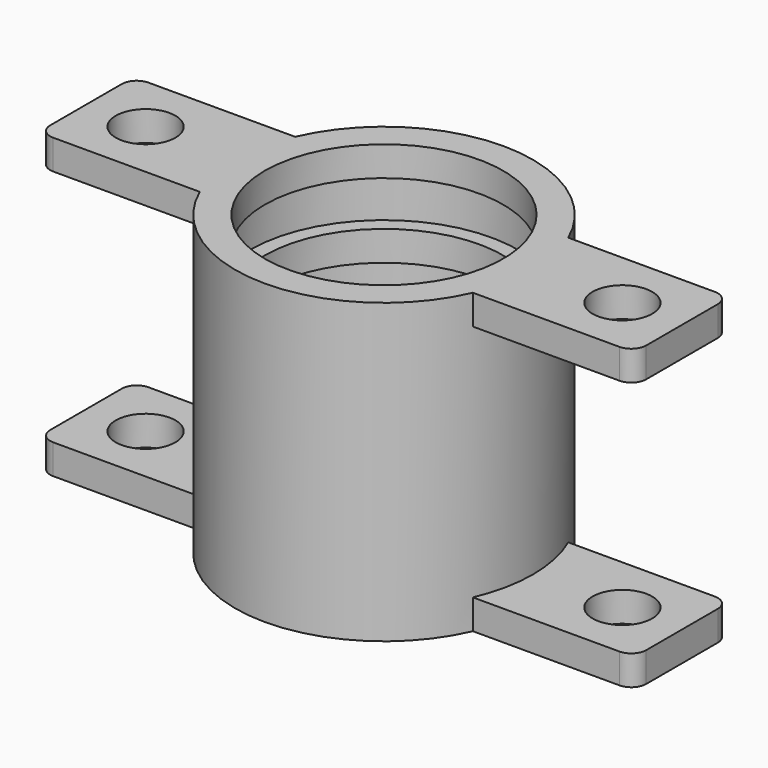
from build123d import *

# Parameters (mm, degrees)
F2_R     = 5
F3_DEPTH = 5


with BuildPart() as f1:
    # F0 (on Front) → F1 (revolve)
    with BuildSketch(Plane.XZ):
        Polygon((-25, 25), (-25, 0), (-22.5, 0), (-22.5, 7.5), (-20, 7.5), (-20, 12.5), (-22.5, 12.5), (-22.5, 20), (-20, 20), (-20, 25), align=None)
        Polygon((-22.5, 0), (-25, 0), (-25, -25), (-20, -25), (-20, -20), (-22.5, -20), (-22.5, -12.5), (-20, -12.5), (-20, -7.5), (-22.5, -7.5), align=None)
    revolve(axis=Axis((0, 0, 7.500000298), (0, 0, -1)))

    # F2 (on face) → F3 (join)
    with BuildSketch(Plane.XY.offset(25)):
        with BuildLine():
            ThreePointArc((-22.9128784748, -10), (-25, 0), (-22.9128784748, 10))
            Line((-22.9128784748, 10), (-47.5, 10))
            ThreePointArc((-47.5, 10), (-49.267766953, 9.267766953), (-50, 7.5))
            Line((-50, 7.5), (-50, 0))
            Line((-50, 0), (-50, -7.5))
            ThreePointArc((-50, -7.5), (-49.267766953, -9.267766953), (-47.5, -10))
            Line((-47.5, -10), (-22.9128784748, -10))
        make_face()
        with Locations((-40, 0)):
            Circle(F2_R, mode=Mode.SUBTRACT)
    extrude(amount=-F3_DEPTH)

    # F4: F1 across plane


with BuildPart() as f1_1:
    add(f1.part)
    add(f1.part.mirror(Plane.YZ))

    # F5: F1 across plane


with BuildPart() as f1_2:
    add(f1_1.part)
    add(f1_1.part.mirror(Plane.XY))


solid = f1_2.part
